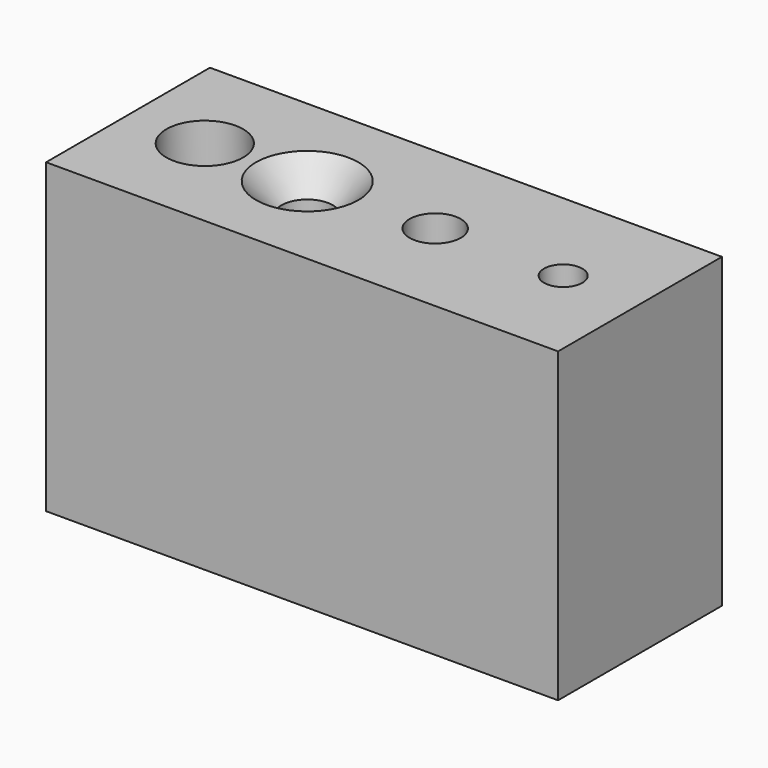
from build123d import *

# Parameters (mm, degrees)
F0_W           = 127
F0_H           = 50.8
F1_DEPTH       = 76.2
F2_R           = 6.35
F3_DEPTH       = 76.201
F4_D           = 12.7
F4_CSINK_D     = 25.4
F4_CSINK_ANGLE = 82
F5_D           = 12.7
F5_DEPTH       = 50.8
F5_CBORE_D     = 19.05
F5_CBORE_DEPTH = 12.7
F5_TIP         = 3.8154649308
F6_D           = 6.35
F6_DEPTH       = 25.4
F6_CBORE_D     = 9.525
F6_CBORE_DEPTH = 6.35
F6_TIP         = 1.9077324654


with BuildPart() as f1:
    # F0 (on Top) → F1 (new body)
    with BuildSketch(Plane.XY):
        with Locations((3.3501721919, 22.0997785254)):
            Rectangle(F0_W, F0_H)
    extrude(amount=F1_DEPTH)

    # F2 (on face) → F3 (cut, through all)
    with BuildSketch(Plane.XY.offset(76.2)):
        with Locations((16.0501721919, 22.0997785254)):
            Circle(F2_R)
    extrude(amount=-F3_DEPTH, mode=Mode.SUBTRACT)

    # F4 (through all)
    with Locations(Plane.XY.offset(76.2)):
        with Locations((-15.6998278081, 22.0997785254)):
            CounterSinkHole(F4_D / 2, F4_CSINK_D / 2, counter_sink_angle=F4_CSINK_ANGLE)

    # F5
    with Locations(Plane.XY.offset(76.2)):
        with Locations((-41.0998278081, 22.0997785254)):
            CounterBoreHole(F5_D / 2, F5_CBORE_D / 2, F5_CBORE_DEPTH, depth=F5_DEPTH)
            with Locations((0, 0, -(F5_DEPTH + F5_TIP / 2))):  # 118° drill point
                Cone(0, F5_D / 2, F5_TIP, mode=Mode.SUBTRACT)

    # F6
    with Locations(Plane.XY.offset(76.2)):
        with Locations((47.8001721919, 22.0997785254)):
            CounterBoreHole(F6_D / 2, F6_CBORE_D / 2, F6_CBORE_DEPTH, depth=F6_DEPTH)
            with Locations((0, 0, -(F6_DEPTH + F6_TIP / 2))):  # 118° drill point
                Cone(0, F6_D / 2, F6_TIP, mode=Mode.SUBTRACT)


solid = f1.part
